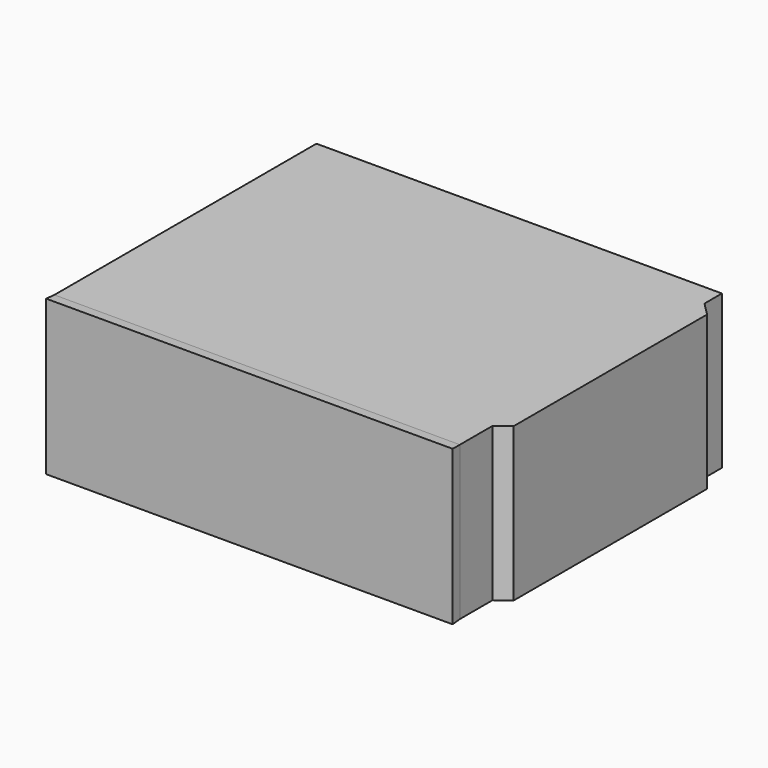
from build123d import *

# Parameters (mm, degrees)
F1_DEPTH  = 25
F1_FACE_W = 66.04
F1_FACE_H = 25
F2_DEPTH  = 1.588
F2_TAPER  = -3


with BuildPart() as f1:
    # F0 (on Top) → F1 (new body)
    with BuildSketch(Plane.XY):
        Polygon((32.4131661011, 23.9884992057), (-33.6268338989, 23.9884992057), (-33.6268338989, -29.3515007943), (32.4131661011, -29.3515007943), (32.4131661011, -22.7092797923), (34.5588182305, -21.1252766549), (34.5588182305, 18.2884992057), (32.4131661011, 20.4341513352), align=None)
    extrude(amount=F1_DEPTH)

    # F1_face (on face) → F2 (join)
    with BuildSketch(Plane(origin=(-0.6068338989, -29.3515007943, 12.5), x_dir=(1, 0, 0), z_dir=(0, -1, 0))):
        Rectangle(F1_FACE_W, F1_FACE_H)
    extrude(amount=F2_DEPTH, taper=F2_TAPER)


solid = f1.part
